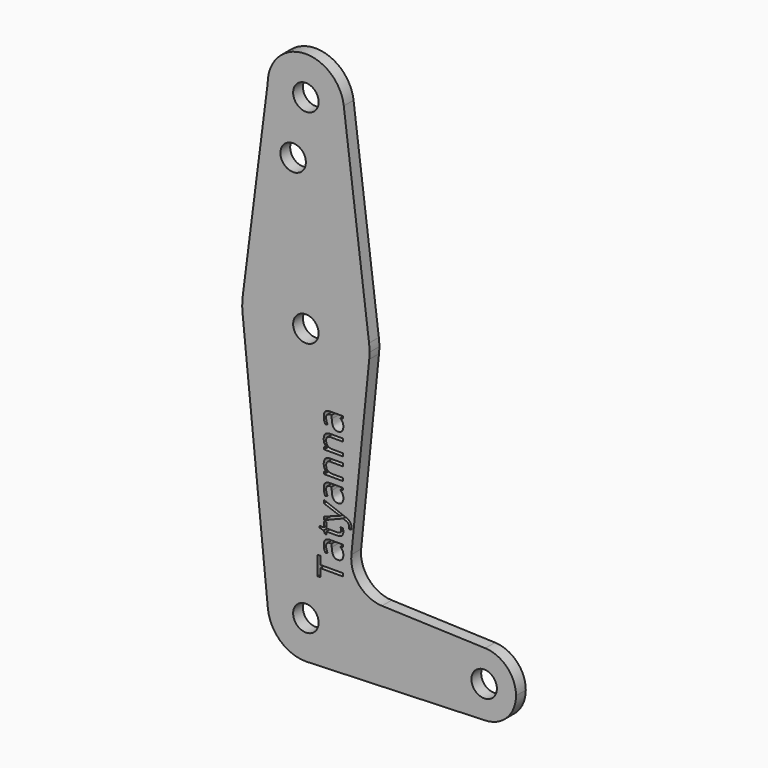
from build123d import *

# Parameters (mm, degrees)
F0_R     = 3.175
F1_DEPTH = 3.048


with BuildPart() as f1:
    # F0 (on Front) → F1 (new body)
    with BuildSketch(Plane.XZ):
        with BuildLine():
            ThreePointArc((0.6773435479, -9.500885786), (6.9705567315, -6.4912990883), (9.525, 0))
            ThreePointArc((9.525, 0), (-0.4768479324, 9.5130563464), (-9.4772553384, -0.9525))
            ThreePointArc((-9.4772553384, -0.9525), (-6.3895642457, -7.063929059), (0, -9.525))
            Line((0, -9.525), (0.6773435479, -9.500885786))
        make_face()
        Circle(F0_R, mode=Mode.SUBTRACT)
        with BuildLine():
            ThreePointArc((-9.4772553384, -0.9525), (-0.4768479324, 9.5130563464), (9.525, 0))
            ThreePointArc((9.525, 0), (6.9705567315, -6.4912990883), (0.6773435479, -9.500885786))
            Line((0.6773435479, -9.500885786), (44.7324052746, -7.9324746146))
            ThreePointArc((44.7324052746, -7.9324746146), (36.5125000183, 0.0005387766), (44.7334821429, 7.9324362036))
            Line((44.7334821429, 7.9324362036), (18.9676000005, 8.8532337108))
            ThreePointArc((18.9676000005, 8.8532337108), (13.2611998974, 11.5713591498), (11.3411865923, 17.5933818124))
            Line((11.3411865923, 17.5933818124), (15.7954255641, 61.9125))
            ThreePointArc((15.7954255641, 61.9125), (0, 47.625), (-15.7954255641, 61.9125))
            Line((-15.7954255641, 61.9125), (-9.4772553384, -0.9525))
        make_face()
        Polygon((3.6082732479, 12.8617820062), (9.2540957305, 12.8617820062), (9.2540957305, 12.1300437249), (3.6082732479, 12.1300437249), (3.6082732479, 10.1360224576), (2.9578392201, 10.1360224576), (2.9578392201, 14.8558032735), (3.6082732479, 14.8558032735), align=None, mode=Mode.SUBTRACT)
        with BuildLine():
            Line((9.2540957305, 19.1290997145), (9.2540957305, 18.5985550096))
            Line((9.2540957305, 18.5985550096), (8.5816130916, 18.4566170756))
            Line((8.5816130916, 18.4566170756), (8.5816130916, 18.4221661207))
            add(Edge.make_bspline(
                [(8.5816130916, 18.4221661207), (9.0253413902, 18.069388343), (9.1831267635, 17.7186776225)],
                knots=[0, 0, 0, 1, 1, 1], degree=2))
            add(Edge.make_bspline(
                [(9.1831267635, 17.7186776225), (9.3409121368, 17.367966902), (9.3409121368, 16.8415563117)],
                knots=[0, 0, 0, 1, 1, 1], degree=2))
            add(Edge.make_bspline(
                [(9.3409121368, 16.8415563117), (9.3409121368, 16.1401348707), (8.9784880916, 15.7418818326)],
                knots=[0, 0, 0, 1, 1, 1], degree=2))
            add(Edge.make_bspline(
                [(8.9784880916, 15.7418818326), (8.6160640465, 15.3436287944), (7.9490935604, 15.3436287944)],
                knots=[0, 0, 0, 1, 1, 1], degree=2))
            add(Edge.make_bspline(
                [(7.9490935604, 15.3436287944), (6.5200679527, 15.3436287944), (6.451166043, 17.6297941589)],
                knots=[0, 0, 0, 1, 1, 1], degree=2))
            Line((6.451166043, 17.6297941589), (6.4249833173, 18.4304343499))
            Line((6.4249833173, 18.4304343499), (6.1314611819, 18.4304343499))
            add(Edge.make_bspline(
                [(6.1314611819, 18.4304343499), (5.5761117895, 18.4304343499), (5.3115284562, 18.1920337423)],
                knots=[0, 0, 0, 1, 1, 1], degree=2))
            add(Edge.make_bspline(
                [(5.3115284562, 18.1920337423), (5.0469451229, 17.9536331346), (5.0469451229, 17.4272225444)],
                knots=[0, 0, 0, 1, 1, 1], degree=2))
            add(Edge.make_bspline(
                [(5.0469451229, 17.4272225444), (5.0469451229, 16.8374221971), (5.4079911298, 16.0932815721)],
                knots=[0, 0, 0, 1, 1, 1], degree=2))
            Line((5.4079911298, 16.0932815721), (4.8609099666, 15.872795461))
            add(Edge.make_bspline(
                [(4.8609099666, 15.872795461), (4.672118734, 16.2214391242), (4.5646317548, 16.6369176398)],
                knots=[0, 0, 0, 1, 1, 1], degree=2))
            add(Edge.make_bspline(
                [(4.5646317548, 16.6369176398), (4.4571447757, 17.0523961555), (4.4571447757, 17.4713197666)],
                knots=[0, 0, 0, 1, 1, 1], degree=2))
            add(Edge.make_bspline(
                [(4.4571447757, 17.4713197666), (4.4571447757, 18.3146791416), (4.8312821454, 18.721889428)],
                knots=[0, 0, 0, 1, 1, 1], degree=2))
            add(Edge.make_bspline(
                [(4.8312821454, 18.721889428), (5.2054195152, 19.1290997145), (6.0322424319, 19.1290997145)],
                knots=[0, 0, 0, 1, 1, 1], degree=2))
            Line((6.0322424319, 19.1290997145), (9.2540957305, 19.1290997145))
        make_face(mode=Mode.SUBTRACT)
        with BuildLine():
            add(Edge.make_bspline(
                [(8.5216684302, 21.5696053569), (8.7497337513, 21.7721769714), (8.7497337513, 22.1249547492)],
                knots=[0, 0, 0, 1, 1, 1], degree=2))
            add(Edge.make_bspline(
                [(8.7497337513, 22.1249547492), (8.7497337513, 22.3151240201), (8.7221729875, 22.4915129089)],
                knots=[0, 0, 0, 1, 1, 1], degree=2))
            add(Edge.make_bspline(
                [(8.7221729875, 22.4915129089), (8.6946122236, 22.6679017978), (8.6642953833, 22.7712546624)],
                knots=[0, 0, 0, 1, 1, 1], degree=2))
            Line((8.6642953833, 22.7712546624), (9.2113765465, 22.7712546624))
            add(Edge.make_bspline(
                [(9.2113765465, 22.7712546624), (9.2664980743, 22.6554994541), (9.3037051055, 22.4295011902)],
                knots=[0, 0, 0, 1, 1, 1], degree=2))
            add(Edge.make_bspline(
                [(9.3037051055, 22.4295011902), (9.3409121368, 22.2035029263), (9.3409121368, 22.0216018846)],
                knots=[0, 0, 0, 1, 1, 1], degree=2))
            add(Edge.make_bspline(
                [(9.3409121368, 22.0216018846), (9.3409121368, 20.6532099576), (7.8981061472, 20.6532099576)],
                knots=[0, 0, 0, 1, 1, 1], degree=2))
            Line((7.8981061472, 20.6532099576), (5.0896643069, 20.6532099576))
            Line((5.0896643069, 20.6532099576), (5.0896643069, 19.9765932041))
            Line((5.0896643069, 19.9765932041), (4.7451547583, 19.9765932041))
            Line((4.7451547583, 19.9765932041), (4.4474985083, 20.6532099576))
            Line((4.4474985083, 20.6532099576), (3.4401525882, 20.9536222839))
            Line((3.4401525882, 20.9536222839), (3.4401525882, 21.3670337423))
            Line((3.4401525882, 21.3670337423), (4.5343149145, 21.3670337423))
            Line((4.5343149145, 21.3670337423), (4.5343149145, 22.7368037076))
            Line((4.5343149145, 22.7368037076), (5.0896643069, 22.7368037076))
            Line((5.0896643069, 22.7368037076), (5.0896643069, 21.3670337423))
            Line((5.0896643069, 21.3670337423), (7.8677893069, 21.3670337423))
            add(Edge.make_bspline(
                [(7.8677893069, 21.3670337423), (8.293603109, 21.3670337423), (8.5216684302, 21.5696053569)],
                knots=[0, 0, 0, 1, 1, 1], degree=2))
        make_face(mode=Mode.SUBTRACT)
        with BuildLine():
            Line((9.2802784562, 24.8686287944), (4.5343149145, 22.9641800096))
            Line((4.5343149145, 22.9641800096), (4.5343149145, 23.7317472839))
            Line((4.5343149145, 23.7317472839), (7.2256235083, 24.7652759298))
            add(Edge.make_bspline(
                [(7.2256235083, 24.7652759298), (8.1475310604, 25.1042733256), (8.5568084041, 25.1869556173)],
                knots=[0, 0, 0, 1, 1, 1], degree=2))
            Line((8.5568084041, 25.1869556173), (8.5568084041, 25.2214065721))
            add(Edge.make_bspline(
                [(8.5568084041, 25.2214065721), (8.336322293, 25.2765280999), (7.80439955, 25.4556730652)],
                knots=[0, 0, 0, 1, 1, 1], degree=2))
            add(Edge.make_bspline(
                [(7.80439955, 25.4556730652), (7.2724768069, 25.6348180305), (4.5343149145, 26.6256274923)],
                knots=[0, 0, 0, 1, 1, 1], degree=2))
            Line((4.5343149145, 26.6256274923), (4.5343149145, 27.3918167284))
            Line((4.5343149145, 27.3918167284), (9.9086638729, 25.3633445062))
            add(Edge.make_bspline(
                [(9.9086638729, 25.3633445062), (10.7051699493, 25.0615541416), (11.0393442114, 24.6591669888)],
                knots=[0, 0, 0, 1, 1, 1], degree=2))
            add(Edge.make_bspline(
                [(11.0393442114, 24.6591669888), (11.3735184736, 24.256779836), (11.3735184736, 23.6711136034)],
                knots=[0, 0, 0, 1, 1, 1], degree=2))
            add(Edge.make_bspline(
                [(11.3735184736, 23.6711136034), (11.3735184736, 23.3431405131), (11.2991044111, 23.0248136902)],
                knots=[0, 0, 0, 1, 1, 1], degree=2))
            Line((11.2991044111, 23.0248136902), (10.7272185604, 23.0248136902))
            add(Edge.make_bspline(
                [(10.7272185604, 23.0248136902), (10.7782059736, 23.2618362596), (10.7782059736, 23.5539803569)],
                knots=[0, 0, 0, 1, 1, 1], degree=2))
            add(Edge.make_bspline(
                [(10.7782059736, 23.5539803569), (10.7782059736, 24.2912307909), (9.9513830569, 24.6054234992)],
                knots=[0, 0, 0, 1, 1, 1], degree=2))
            Line((9.9513830569, 24.6054234992), (9.2802784562, 24.8686287944))
        make_face(mode=Mode.SUBTRACT)
        with BuildLine():
            Line((9.2540957305, 31.5906991069), (9.2540957305, 31.060154402))
            Line((9.2540957305, 31.060154402), (8.5816130916, 30.918216468))
            Line((8.5816130916, 30.918216468), (8.5816130916, 30.8837655131))
            add(Edge.make_bspline(
                [(8.5816130916, 30.8837655131), (9.0253413902, 30.5309877353), (9.1831267635, 30.1802770148)],
                knots=[0, 0, 0, 1, 1, 1], degree=2))
            add(Edge.make_bspline(
                [(9.1831267635, 30.1802770148), (9.3409121368, 29.8295662944), (9.3409121368, 29.3031557041)],
                knots=[0, 0, 0, 1, 1, 1], degree=2))
            add(Edge.make_bspline(
                [(9.3409121368, 29.3031557041), (9.3409121368, 28.6017342631), (8.9784880916, 28.2034812249)],
                knots=[0, 0, 0, 1, 1, 1], degree=2))
            add(Edge.make_bspline(
                [(8.9784880916, 28.2034812249), (8.6160640465, 27.8052281867), (7.9490935604, 27.8052281867)],
                knots=[0, 0, 0, 1, 1, 1], degree=2))
            add(Edge.make_bspline(
                [(7.9490935604, 27.8052281867), (6.5200679527, 27.8052281867), (6.451166043, 30.0913935513)],
                knots=[0, 0, 0, 1, 1, 1], degree=2))
            Line((6.451166043, 30.0913935513), (6.4249833173, 30.8920337423))
            Line((6.4249833173, 30.8920337423), (6.1314611819, 30.8920337423))
            add(Edge.make_bspline(
                [(6.1314611819, 30.8920337423), (5.5761117895, 30.8920337423), (5.3115284562, 30.6536331346)],
                knots=[0, 0, 0, 1, 1, 1], degree=2))
            add(Edge.make_bspline(
                [(5.3115284562, 30.6536331346), (5.0469451229, 30.415232527), (5.0469451229, 29.8888219367)],
                knots=[0, 0, 0, 1, 1, 1], degree=2))
            add(Edge.make_bspline(
                [(5.0469451229, 29.8888219367), (5.0469451229, 29.2990215895), (5.4079911298, 28.5548809645)],
                knots=[0, 0, 0, 1, 1, 1], degree=2))
            Line((5.4079911298, 28.5548809645), (4.8609099666, 28.3343948534))
            add(Edge.make_bspline(
                [(4.8609099666, 28.3343948534), (4.672118734, 28.6830385166), (4.5646317548, 29.0985170322)],
                knots=[0, 0, 0, 1, 1, 1], degree=2))
            add(Edge.make_bspline(
                [(4.5646317548, 29.0985170322), (4.4571447757, 29.5139955478), (4.4571447757, 29.9329191589)],
                knots=[0, 0, 0, 1, 1, 1], degree=2))
            add(Edge.make_bspline(
                [(4.4571447757, 29.9329191589), (4.4571447757, 30.7762785339), (4.8312821454, 31.1834888204)],
                knots=[0, 0, 0, 1, 1, 1], degree=2))
            add(Edge.make_bspline(
                [(4.8312821454, 31.1834888204), (5.2054195152, 31.5906991069), (6.0322424319, 31.5906991069)],
                knots=[0, 0, 0, 1, 1, 1], degree=2))
            Line((6.0322424319, 31.5906991069), (9.2540957305, 31.5906991069))
        make_face(mode=Mode.SUBTRACT)
        with BuildLine():
            Line((9.2540957305, 37.0077672492), (9.2540957305, 36.2925654263))
            Line((9.2540957305, 36.2925654263), (6.2003630916, 36.2925654263))
            add(Edge.make_bspline(
                [(6.2003630916, 36.2925654263), (5.6243431263, 36.2925654263), (5.3397782392, 36.0300491503)],
                knots=[0, 0, 0, 1, 1, 1], degree=2))
            add(Edge.make_bspline(
                [(5.3397782392, 36.0300491503), (5.055213352, 35.7675328742), (5.055213352, 35.2066713291)],
                knots=[0, 0, 0, 1, 1, 1], degree=2))
            add(Edge.make_bspline(
                [(5.055213352, 35.2066713291), (5.055213352, 34.4666648187), (5.4555334475, 34.1221552701)],
                knots=[0, 0, 0, 1, 1, 1], degree=2))
            add(Edge.make_bspline(
                [(5.4555334475, 34.1221552701), (5.855853543, 33.7776457214), (6.7777610951, 33.7776457214)],
                knots=[0, 0, 0, 1, 1, 1], degree=2))
            Line((6.7777610951, 33.7776457214), (9.2540957305, 33.7776457214))
            Line((9.2540957305, 33.7776457214), (9.2540957305, 33.0624438985))
            Line((9.2540957305, 33.0624438985), (4.5343149145, 33.0624438985))
            Line((4.5343149145, 33.0624438985), (4.5343149145, 33.6439760166))
            Line((4.5343149145, 33.6439760166), (5.1806148277, 33.7597312249))
            Line((5.1806148277, 33.7597312249), (5.1806148277, 33.7941821798))
            add(Edge.make_bspline(
                [(5.1806148277, 33.7941821798), (4.8319711645, 34.0146682909), (4.6397348364, 34.4108542718)],
                knots=[0, 0, 0, 1, 1, 1], degree=2))
            add(Edge.make_bspline(
                [(4.6397348364, 34.4108542718), (4.4474985083, 34.8070402527), (4.4474985083, 35.2934877353)],
                knots=[0, 0, 0, 1, 1, 1], degree=2))
            add(Edge.make_bspline(
                [(4.4474985083, 35.2934877353), (4.4474985083, 36.1464933777), (4.8588429093, 36.5771303135)],
                knots=[0, 0, 0, 1, 1, 1], degree=2))
            add(Edge.make_bspline(
                [(4.8588429093, 36.5771303135), (5.2701873104, 37.0077672492), (6.1755584041, 37.0077672492)],
                knots=[0, 0, 0, 1, 1, 1], degree=2))
            Line((6.1755584041, 37.0077672492), (9.2540957305, 37.0077672492))
        make_face(mode=Mode.SUBTRACT)
        with BuildLine():
            Line((9.2540957305, 42.420701277), (9.2540957305, 41.7054994541))
            Line((9.2540957305, 41.7054994541), (6.2003630916, 41.7054994541))
            add(Edge.make_bspline(
                [(6.2003630916, 41.7054994541), (5.6243431263, 41.7054994541), (5.3397782392, 41.442983178)],
                knots=[0, 0, 0, 1, 1, 1], degree=2))
            add(Edge.make_bspline(
                [(5.3397782392, 41.442983178), (5.055213352, 41.180466902), (5.055213352, 40.6196053569)],
                knots=[0, 0, 0, 1, 1, 1], degree=2))
            add(Edge.make_bspline(
                [(5.055213352, 40.6196053569), (5.055213352, 39.8795988464), (5.4555334475, 39.5350892978)],
                knots=[0, 0, 0, 1, 1, 1], degree=2))
            add(Edge.make_bspline(
                [(5.4555334475, 39.5350892978), (5.855853543, 39.1905797492), (6.7777610951, 39.1905797492)],
                knots=[0, 0, 0, 1, 1, 1], degree=2))
            Line((6.7777610951, 39.1905797492), (9.2540957305, 39.1905797492))
            Line((9.2540957305, 39.1905797492), (9.2540957305, 38.4753779263))
            Line((9.2540957305, 38.4753779263), (4.5343149145, 38.4753779263))
            Line((4.5343149145, 38.4753779263), (4.5343149145, 39.0569100444))
            Line((4.5343149145, 39.0569100444), (5.1806148277, 39.1726652527))
            Line((5.1806148277, 39.1726652527), (5.1806148277, 39.2071162076))
            add(Edge.make_bspline(
                [(5.1806148277, 39.2071162076), (4.8319711645, 39.4276023187), (4.6397348364, 39.8237882996)],
                knots=[0, 0, 0, 1, 1, 1], degree=2))
            add(Edge.make_bspline(
                [(4.6397348364, 39.8237882996), (4.4474985083, 40.2199742805), (4.4474985083, 40.7064217631)],
                knots=[0, 0, 0, 1, 1, 1], degree=2))
            add(Edge.make_bspline(
                [(4.4474985083, 40.7064217631), (4.4474985083, 41.5594274055), (4.8588429093, 41.9900643412)],
                knots=[0, 0, 0, 1, 1, 1], degree=2))
            add(Edge.make_bspline(
                [(4.8588429093, 41.9900643412), (5.2701873104, 42.420701277), (6.1755584041, 42.420701277)],
                knots=[0, 0, 0, 1, 1, 1], degree=2))
            Line((6.1755584041, 42.420701277), (9.2540957305, 42.420701277))
        make_face(mode=Mode.SUBTRACT)
        with BuildLine():
            Line((9.2540957305, 47.3210050964), (9.2540957305, 46.7904603916))
            Line((9.2540957305, 46.7904603916), (8.5816130916, 46.6485224576))
            Line((8.5816130916, 46.6485224576), (8.5816130916, 46.6140715027))
            add(Edge.make_bspline(
                [(8.5816130916, 46.6140715027), (9.0253413902, 46.2612937249), (9.1831267635, 45.9105830044)],
                knots=[0, 0, 0, 1, 1, 1], degree=2))
            add(Edge.make_bspline(
                [(9.1831267635, 45.9105830044), (9.3409121368, 45.5598722839), (9.3409121368, 45.0334616937)],
                knots=[0, 0, 0, 1, 1, 1], degree=2))
            add(Edge.make_bspline(
                [(9.3409121368, 45.0334616937), (9.3409121368, 44.3320402527), (8.9784880916, 43.9337872145)],
                knots=[0, 0, 0, 1, 1, 1], degree=2))
            add(Edge.make_bspline(
                [(8.9784880916, 43.9337872145), (8.6160640465, 43.5355341763), (7.9490935604, 43.5355341763)],
                knots=[0, 0, 0, 1, 1, 1], degree=2))
            add(Edge.make_bspline(
                [(7.9490935604, 43.5355341763), (6.5200679527, 43.5355341763), (6.451166043, 45.8216995409)],
                knots=[0, 0, 0, 1, 1, 1], degree=2))
            Line((6.451166043, 45.8216995409), (6.4249833173, 46.6223397319))
            Line((6.4249833173, 46.6223397319), (6.1314611819, 46.6223397319))
            add(Edge.make_bspline(
                [(6.1314611819, 46.6223397319), (5.5761117895, 46.6223397319), (5.3115284562, 46.3839391242)],
                knots=[0, 0, 0, 1, 1, 1], degree=2))
            add(Edge.make_bspline(
                [(5.3115284562, 46.3839391242), (5.0469451229, 46.1455385166), (5.0469451229, 45.6191279263)],
                knots=[0, 0, 0, 1, 1, 1], degree=2))
            add(Edge.make_bspline(
                [(5.0469451229, 45.6191279263), (5.0469451229, 45.0293275791), (5.4079911298, 44.2851869541)],
                knots=[0, 0, 0, 1, 1, 1], degree=2))
            Line((5.4079911298, 44.2851869541), (4.8609099666, 44.064700843))
            add(Edge.make_bspline(
                [(4.8609099666, 44.064700843), (4.672118734, 44.4133445062), (4.5646317548, 44.8288230218)],
                knots=[0, 0, 0, 1, 1, 1], degree=2))
            add(Edge.make_bspline(
                [(4.5646317548, 44.8288230218), (4.4571447757, 45.2443015374), (4.4571447757, 45.6632251485)],
                knots=[0, 0, 0, 1, 1, 1], degree=2))
            add(Edge.make_bspline(
                [(4.4571447757, 45.6632251485), (4.4571447757, 46.5065845235), (4.8312821454, 46.91379481)],
                knots=[0, 0, 0, 1, 1, 1], degree=2))
            add(Edge.make_bspline(
                [(4.8312821454, 46.91379481), (5.2054195152, 47.3210050964), (6.0322424319, 47.3210050964)],
                knots=[0, 0, 0, 1, 1, 1], degree=2))
            Line((6.0322424319, 47.3210050964), (9.2540957305, 47.3210050964))
        make_face(mode=Mode.SUBTRACT)
        with BuildLine():
            ThreePointArc((0, -9.525), (0.3388863295, -9.5189695375), (0.6773435479, -9.500885786))
            Line((0.6773435479, -9.500885786), (0, -9.525))
        make_face()
        with BuildLine():
            ThreePointArc((-15.7474569047, 65.5082893304), (-15.8735876171, 63.7117573215), (-15.7954255641, 61.9125))
            ThreePointArc((-15.7954255641, 61.9125), (0, 47.625), (15.7954255641, 61.9125))
            ThreePointArc((15.7954255641, 61.9125), (15.8550939106, 62.7052534459), (15.875, 63.5))
            ThreePointArc((15.875, 63.5), (15.8438414904, 64.4941387366), (15.7504882737, 65.484375))
            ThreePointArc((15.7504882737, 65.484375), (0.0120528461, 79.3749954245), (-15.7474569047, 65.5082893304))
        make_face()
        with Locations((0, 63.5)):
            Circle(F0_R, mode=Mode.SUBTRACT)
        with BuildLine():
            ThreePointArc((44.7334821429, 7.9324362036), (36.5125000183, 0.0005387766), (44.7324052746, -7.9324746146))
            ThreePointArc((44.7324052746, -7.9324746146), (50.1616327839, -5.5119104847), (52.3875, 0))
            ThreePointArc((52.3875, 0), (50.1620069047, 5.5115227815), (44.7334821429, 7.9324362036))
        make_face()
        with Locations((44.45, 0)):
            Circle(F0_R, mode=Mode.SUBTRACT)
        with BuildLine():
            Line((-9.525, 114.3), (-15.7474569047, 65.5082893304))
            ThreePointArc((-15.7474569047, 65.5082893304), (0.0120528461, 79.3749954245), (15.7504882737, 65.484375))
            Line((15.7504882737, 65.484375), (9.4502929642, 115.490625))
            ThreePointArc((9.4502929642, 115.490625), (9.5063048942, 114.896483242), (9.525, 114.3))
            ThreePointArc((9.525, 114.3), (0, 104.775), (-9.525, 114.3))
        make_face()
        with Locations((-3.175, 100.0252)):
            Circle(F0_R, mode=Mode.SUBTRACT)
        with BuildLine():
            ThreePointArc((9.4502929642, 115.490625), (-0.596483242, 123.8063048942), (-9.525, 114.3))
            ThreePointArc((-9.525, 114.3), (0, 104.775), (9.525, 114.3))
            ThreePointArc((9.525, 114.3), (9.5063048942, 114.896483242), (9.4502929642, 115.490625))
        make_face()
        with Locations((0, 114.3)):
            Circle(F0_R, mode=Mode.SUBTRACT)
    extrude(amount=F1_DEPTH)


solid = f1.part
